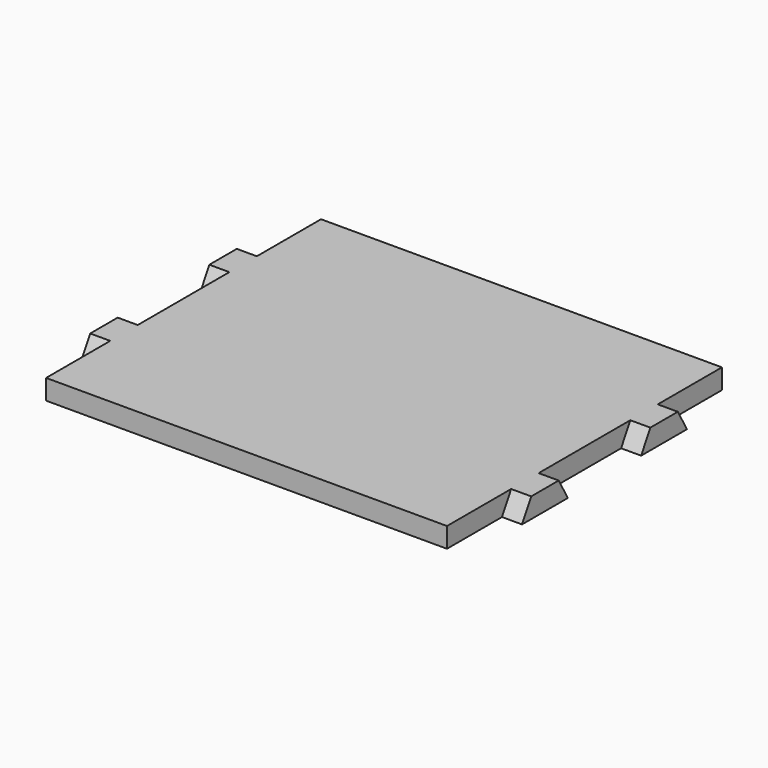
from build123d import *

# Parameters (mm, degrees)
F0_W     = 77
F0_H     = 60
F1_DEPTH = 3.5
F3_DEPTH = 3.5
F5_DEPTH = 3.5


with BuildPart() as f1:
    # F0 (on Top) → F1 (new body)
    with BuildSketch(Plane.XY):
        Rectangle(F0_W, F0_H)
    extrude(amount=F1_DEPTH)

    # F2 (on face) → F3 (cut)
    with BuildSketch(Plane(origin=(-38.5, 0, 0), x_dir=(0, -1, 0), z_dir=(-1, 0, 0))):
        Polygon((-16, 3.5), (-30, 3.5), (-30, 0), (-18, 0), align=None)
        Polygon((10, 3.5), (-10, 3.5), (-8, 0), (8, 0), align=None)
        Polygon((30, 3.5), (16, 3.5), (18, 0), (30, 0), align=None)
    extrude(amount=-F3_DEPTH, mode=Mode.SUBTRACT)

    # F4 (on face) → F5 (cut)
    with BuildSketch(Plane.YZ.offset(38.5)):
        Polygon((-18, 0), (-16, 3.5), (-30, 3.5), (-30, 0), align=None)
        Polygon((8, 0), (10, 3.5), (-10, 3.5), (-8, 0), align=None)
        Polygon((30, 0), (30, 3.5), (16, 3.5), (18, 0), align=None)
    extrude(amount=-F5_DEPTH, mode=Mode.SUBTRACT)


solid = f1.part
